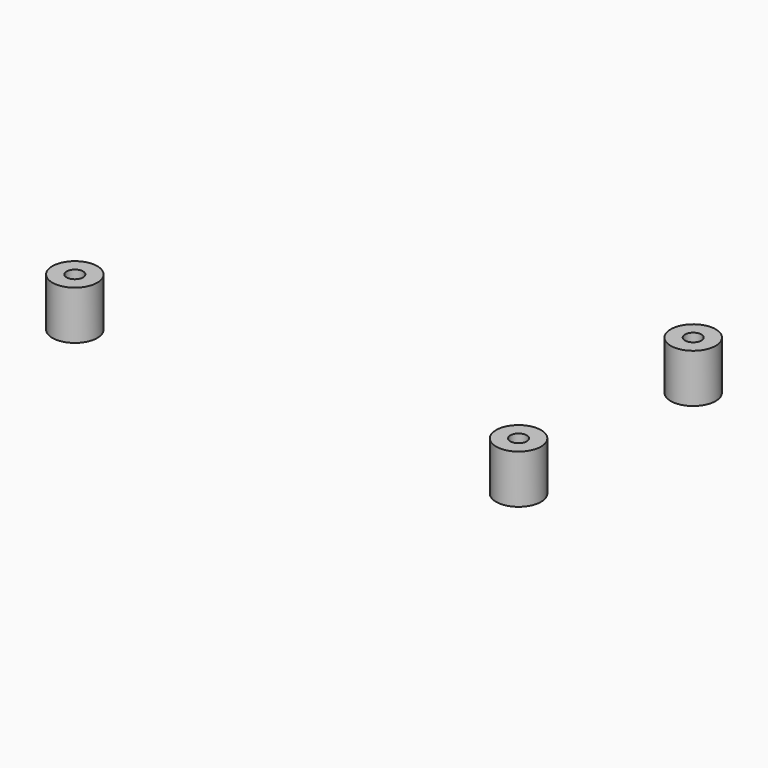
from build123d import *

# Parameters (mm, degrees)
CYLINDER006_R     = 1.1
CYLINDER006_DEPTH = 6.5
CYLINDER005_R     = 1.1
CYLINDER005_DEPTH = 6.5
CYLINDER004_R     = 1.1
CYLINDER004_DEPTH = 6.5
CYLINDER003_R     = 1.1
CYLINDER003_DEPTH = 6.5
CIRCLE006_R       = 3
EXTRUDE099_DEPTH  = 6.5
CIRCLE007_R       = 3
EXTRUDE100_DEPTH  = 6.5
CIRCLE004_R       = 3
EXTRUDE_DEPTH     = 6.5


with BuildPart() as cylinder006:
    # Cylinder006 → Cylinder006 (new body)
    with BuildSketch(Plane(origin=(30.7196, -1, 26.5), x_dir=(1, 0, 0), z_dir=(0, 0, 1))):
        Circle(CYLINDER006_R)
    extrude(amount=CYLINDER006_DEPTH)


with BuildPart() as cylinder005:
    # Cylinder005 → Cylinder005 (new body)
    with BuildSketch(Plane(origin=(30.7196, -30.1605, 26.5), x_dir=(1, 0, 0), z_dir=(0, 0, 1))):
        Circle(CYLINDER005_R)
    extrude(amount=CYLINDER005_DEPTH)


with BuildPart() as cylinder004:
    # Cylinder004 → Cylinder004 (new body)
    with BuildSketch(Plane(origin=(-28.5503, -30.1605, 26.5), x_dir=(1, 0, 0), z_dir=(0, 0, 1))):
        Circle(CYLINDER004_R)
    extrude(amount=CYLINDER004_DEPTH)


with BuildPart() as fusion006:
    # Cylinder003 → Cylinder003 (new body)
    with BuildSketch(Plane(origin=(-28.5503, -1, 26.5), x_dir=(1, 0, 0), z_dir=(0, 0, 1))):
        Circle(CYLINDER003_R)
    extrude(amount=CYLINDER003_DEPTH)

    # Fusion006: union Cylinder006, Cylinder005, Cylinder004
    add(cylinder006.part)
    add(cylinder005.part)
    add(cylinder004.part)


with BuildPart() as extrude099:
    # Circle006 → Extrude099 (new body)
    with BuildSketch(Plane(origin=(30.7196, -1, 33), x_dir=(1, 0, 0), z_dir=(0, 0, -1))):
        Circle(CIRCLE006_R)
    extrude(amount=EXTRUDE099_DEPTH)


with BuildPart() as extrude100:
    # Circle007 → Extrude100 (new body)
    with BuildSketch(Plane(origin=(30.7196, -30.1605, 33), x_dir=(1, 0, 0), z_dir=(0, 0, -1))):
        Circle(CIRCLE007_R)
    extrude(amount=EXTRUDE100_DEPTH)


with BuildPart() as pcb_mount:
    # Circle004 → Extrude (new body)
    with BuildSketch(Plane(origin=(-28.5503, -30.1605, 33), x_dir=(1, 0, 0), z_dir=(0, 0, -1))):
        Circle(CIRCLE004_R)
    extrude(amount=EXTRUDE_DEPTH)

    # Fusion005: union Extrude099, Extrude100
    add(extrude099.part)
    add(extrude100.part)

    # Cut006: cut Fusion006
    add(fusion006.part, mode=Mode.SUBTRACT)


with BuildPart() as pcb_mount_1:
    # Cut006 placement: moved
    add(pcb_mount.part.moved(Location((-1, 0.3, 0))))


solid = pcb_mount_1.part
